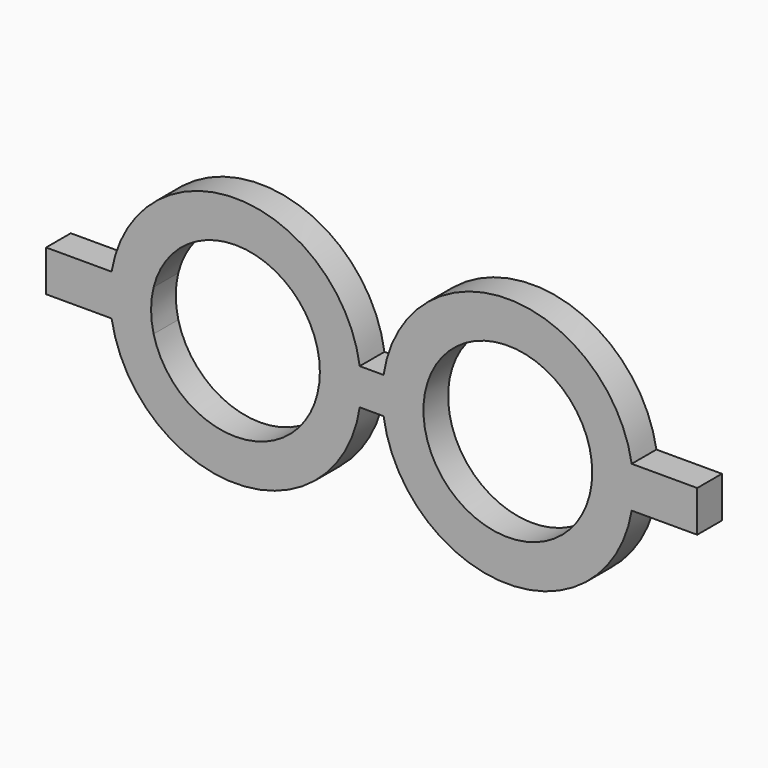
from build123d import *

# Parameters (mm, degrees)
F0_R     = 8.2
F1_DEPTH = 3


with BuildPart() as f1:
    # F0 (on Front) → F1 (new body)
    with BuildSketch(Plane.XZ):
        with BuildLine():
            ThreePointArc((-7.952358, 2), (1.007637, 8.137854), (8.2, 0))
            ThreePointArc((8.2, 0), (1.007637, -8.137854), (-7.952358, -2))
            Line((-7.952358, -2), (-12.034949, -2))
            ThreePointArc((-12.034949, -2), (0.120863, -12.199401), (12.072212, -1.761164))
            ThreePointArc((12.072212, -1.761164), (12.2, 0), (12.072212, 1.761164))
            ThreePointArc((12.072212, 1.761164), (0.120863, 12.199401), (-12.034949, 2))
            Line((-12.034949, 2), (-7.952358, 2))
        make_face()
        with BuildLine():
            ThreePointArc((-7.952358, -2), (-8.2, 0), (-7.952358, 2))
            Line((-7.952358, 2), (-12.034949, 2))
            Line((-12.034949, 2), (-18.4, 2))
            Line((-18.4, 2), (-18.4, -2))
            Line((-18.4, -2), (-12.034949, -2))
            Line((-12.034949, -2), (-7.952358, -2))
        make_face()
        with BuildLine():
            Line((14.389788, 1.761164), (12.072212, 1.761164))
            ThreePointArc((12.072212, 1.761164), (12.2, 0), (12.072212, -1.761164))
            Line((12.072212, -1.761164), (14.389788, -1.761164))
            ThreePointArc((14.389788, -1.761164), (14.262, 0), (14.389788, 1.761164))
        make_face()
        with BuildLine():
            ThreePointArc((38.496949, 2), (26.341137, 12.199401), (14.389788, 1.761164))
            ThreePointArc((14.389788, 1.761164), (14.262, 0), (14.389788, -1.761164))
            ThreePointArc((14.389788, -1.761164), (26.341137, -12.199401), (38.496949, -2))
            Line((38.496949, -2), (44.862, -2))
            Line((44.862, -2), (44.862, 2))
            Line((44.862, 2), (38.496949, 2))
        make_face()
        with Locations((26.462, 0)):
            Circle(F0_R, mode=Mode.SUBTRACT)
    extrude(amount=F1_DEPTH)


solid = f1.part
